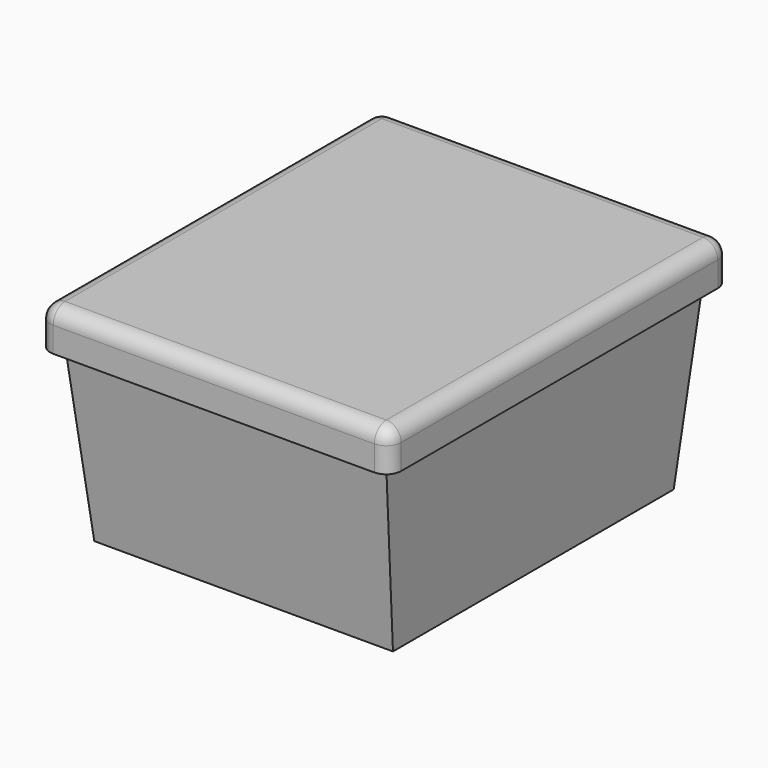
from build123d import *

# Parameters (mm, degrees)
F1_DEPTH = 570
F3_DEPTH = 470.001
F4_R     = 20


with BuildPart() as f1:
    # F0 (on Front) → F1 (new body)
    with BuildSketch(Plane.XZ):
        with BuildLine():
            Line((-235, 0), (-35, 0))
            Line((-35, 0), (-20, 236.3072186708))
            Line((-20, 236.3072186708), (0, 236.3072186708))
            Line((0, 236.3072186708), (0, 270))
            ThreePointArc((0, 270), (-5.8578643763, 284.1421356237), (-20, 290))
            Line((-20, 290), (-235, 290))
            Line((-235, 290), (-235, 0))
        make_face()
        with BuildLine():
            Line((-435, 0), (-235, 0))
            Line((-235, 0), (-235, 290))
            Line((-235, 290), (-450, 290))
            ThreePointArc((-450, 290), (-464.1421356237, 284.1421356237), (-470, 270))
            Line((-470, 270), (-470, 236.3072186708))
            Line((-470, 236.3072186708), (-450, 236.3072186708))
            Line((-450, 236.3072186708), (-435, 0))
        make_face()
    extrude(amount=F1_DEPTH)

    # F2 (on Right) → F3 (cut, through all)
    with BuildSketch(Plane.YZ):
        Polygon((-50, 0), (0, 0), (0, 236.3072186708), (-20, 236.3072186708), align=None)
        Polygon((-570, 0), (-520, 0), (-550, 236.3072186708), (-570, 236.3072186708), align=None)
    extrude(amount=-F3_DEPTH, mode=Mode.SUBTRACT)

    # F4
    f4_edges = [f1.edges().sort_by_distance(p)[0] for p in [
        (-235, -570, 290),
        (-235, 0, 290),
    ]]
    fillet(f4_edges, radius=F4_R)


solid = f1.part
